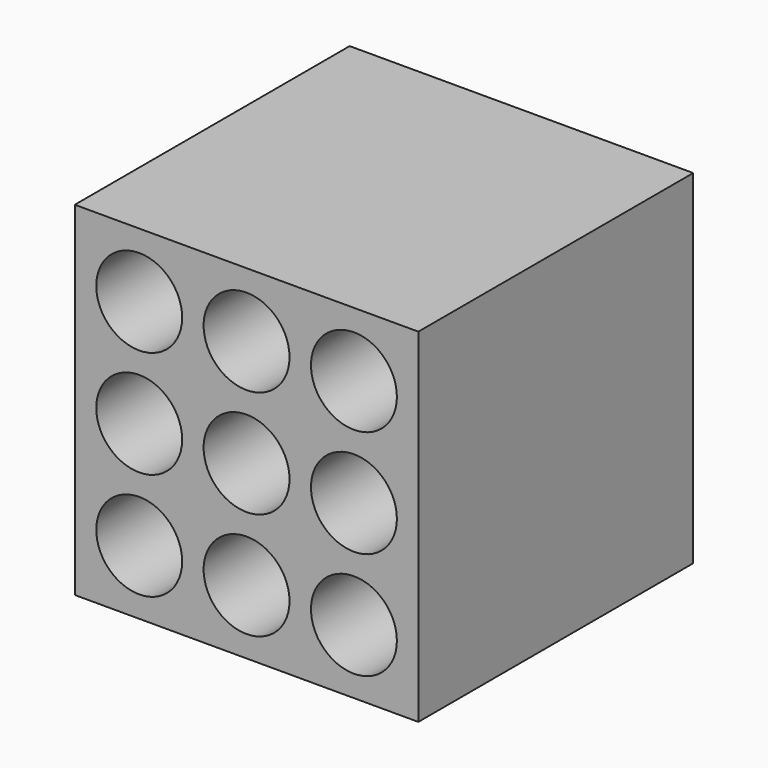
from build123d import *

# Parameters (mm, degrees)
F0_W     = 10
F0_H     = 10
F0_R     = 1.25
F1_DEPTH = 10


with BuildPart() as f1:
    # F0 (on Front) → F1 (new body)
    with BuildSketch(Plane.XZ):
        Rectangle(F0_W, F0_H)
        with Locations((-3.125, -3.125)):
            Circle(F0_R, mode=Mode.SUBTRACT)
        with Locations((0, -3.125)):
            Circle(F0_R, mode=Mode.SUBTRACT)
        with Locations((3.125, -3.125)):
            Circle(F0_R, mode=Mode.SUBTRACT)
        with Locations((-3.125, 0)):
            Circle(F0_R, mode=Mode.SUBTRACT)
        with Locations((-3.125, 3.125)):
            Circle(F0_R, mode=Mode.SUBTRACT)
        Circle(F0_R, mode=Mode.SUBTRACT)
        with Locations((3.125, 0)):
            Circle(F0_R, mode=Mode.SUBTRACT)
        with Locations((0, 3.125)):
            Circle(F0_R, mode=Mode.SUBTRACT)
        with Locations((3.125, 3.125)):
            Circle(F0_R, mode=Mode.SUBTRACT)
    extrude(amount=F1_DEPTH)


solid = f1.part
